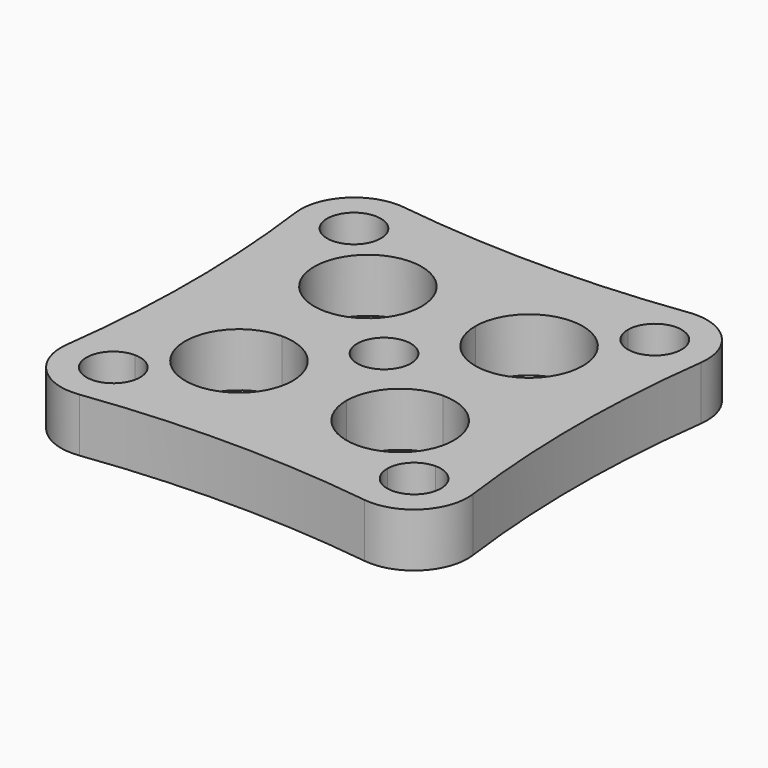
from build123d import *

# Parameters (mm, degrees)
F0_R     = 2.5
F1_DEPTH = 5
F2_R     = 5


with BuildPart() as f1:
    # F0 (on Top) → F1 (new body)
    with BuildSketch(Plane.XY):
        with BuildLine():
            ThreePointArc((-20, -20), (0, -18), (20, -20))
            ThreePointArc((20, -20), (18, 0), (20, 20))
            ThreePointArc((20, 20), (0, 18), (-20, 20))
            ThreePointArc((-20, 20), (-18, 0), (-20, -20))
        make_face()
        with BuildLine():
            ThreePointArc((16.5, 14), (15.767766953, 12.232233047), (14, 11.5))
            Line((14, 11.5), (14, -11.5))
            ThreePointArc((14, -11.5), (15.767766953, -12.232233047), (16.5, -14))
            ThreePointArc((16.5, -14), (14, -16.5), (11.5, -14))
            Line((11.5, -14), (-11.5, -14))
            ThreePointArc((-11.5, -14), (-15.767766953, -15.767766953), (-14, -11.5))
            Line((-14, -11.5), (-14, 11.5))
            ThreePointArc((-14, 11.5), (-15.767766953, 15.767766953), (-11.5, 14))
            Line((-11.5, 14), (11.5, 14))
            ThreePointArc((11.5, 14), (14, 16.5), (16.5, 14))
        make_face(mode=Mode.SUBTRACT)
        with BuildLine():
            Line((14, -11.5), (14, 11.5))
            ThreePointArc((14, 11.5), (12.232233047, 12.232233047), (11.5, 14))
            Line((11.5, 14), (-11.5, 14))
            ThreePointArc((-11.5, 14), (-12.232233047, 12.232233047), (-14, 11.5))
            Line((-14, 11.5), (-14, -11.5))
            ThreePointArc((-14, -11.5), (-12.232233047, -12.232233047), (-11.5, -14))
            Line((-11.5, -14), (11.5, -14))
            ThreePointArc((11.5, -14), (12.232233047, -12.232233047), (14, -11.5))
        make_face()
        with BuildLine():
            Line((2.5, -7.5), (-2.5, -7.5))
            ThreePointArc((-2.5, -7.5), (-11.0355339059, -11.0355339059), (-7.5, -2.5))
            Line((-7.5, -2.5), (-7.5, 2.5))
            ThreePointArc((-7.5, 2.5), (-11.0355339059, 11.0355339059), (-2.5, 7.5))
            Line((-2.5, 7.5), (2.5, 7.5))
            ThreePointArc((2.5, 7.5), (7.5, 12.5), (12.5, 7.5))
            ThreePointArc((12.5, 7.5), (11.0355339059, 3.9644660941), (7.5, 2.5))
            Line((7.5, 2.5), (7.5, -2.5))
            ThreePointArc((7.5, -2.5), (11.0355339059, -3.9644660941), (12.5, -7.5))
            ThreePointArc((12.5, -7.5), (7.5, -12.5), (2.5, -7.5))
        make_face(mode=Mode.SUBTRACT)
        with BuildLine():
            ThreePointArc((-7.5, -2.5), (-3.9644660941, -3.9644660941), (-2.5, -7.5))
            Line((-2.5, -7.5), (2.5, -7.5))
            ThreePointArc((2.5, -7.5), (3.9644660941, -3.9644660941), (7.5, -2.5))
            Line((7.5, -2.5), (7.5, 2.5))
            ThreePointArc((7.5, 2.5), (3.9644660941, 3.9644660941), (2.5, 7.5))
            Line((2.5, 7.5), (-2.5, 7.5))
            ThreePointArc((-2.5, 7.5), (-3.9644660941, 3.9644660941), (-7.5, 2.5))
            Line((-7.5, 2.5), (-7.5, -2.5))
        make_face()
        Circle(F0_R, mode=Mode.SUBTRACT)
    extrude(amount=F1_DEPTH)

    # F2
    f2_edges = [f1.edges().sort_by_distance(p)[0] for p in [
        (20, -20, 2.5),
        (-20, -20, 2.5),
        (20, 20, 2.5),
        (-20, 20, 2.5),
    ]]
    fillet(f2_edges, radius=F2_R)


solid = f1.part
